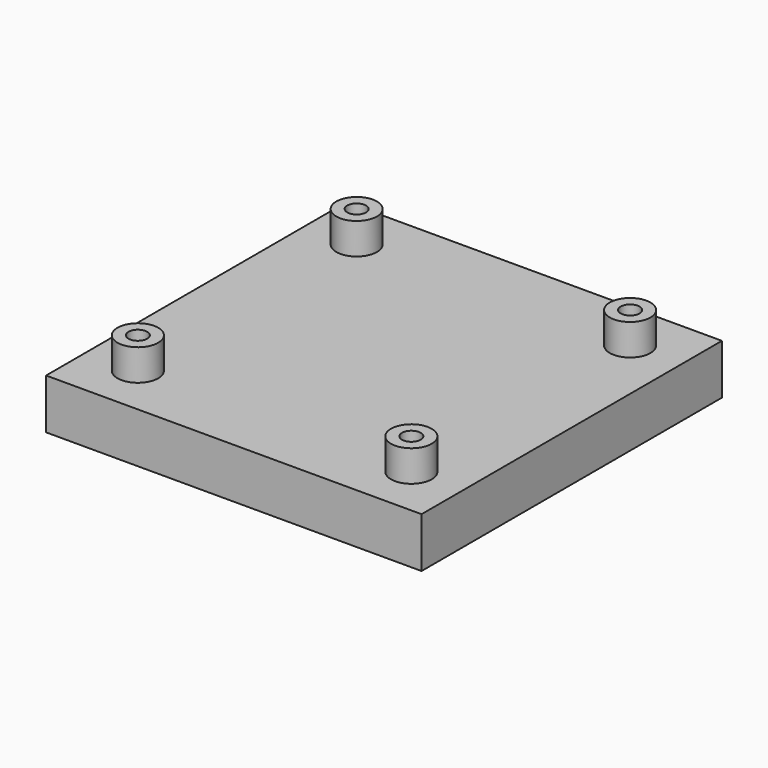
from build123d import *

# Parameters (mm, degrees)
F0_W     = 60
F0_H     = 60
F0_R     = 3.25
F1_DEPTH = 8
F0_R_2   = 1.5
F2_DEPTH = 13
F3_DEPTH = 5


with BuildPart() as f1:
    # F0 (on Top) → F1 (new body)
    with BuildSketch(Plane.XY):
        Rectangle(F0_W, F0_H)
        with Locations((-21.85, -21.85)):
            Circle(F0_R, mode=Mode.SUBTRACT)
        with Locations((21.85, -21.85)):
            Circle(F0_R, mode=Mode.SUBTRACT)
        with Locations((-21.85, 21.85)):
            Circle(F0_R, mode=Mode.SUBTRACT)
        with Locations((21.85, 21.85)):
            Circle(F0_R, mode=Mode.SUBTRACT)
    extrude(amount=F1_DEPTH)

    # F0 (on Top) → F2 (join)
    with BuildSketch(Plane.XY):
        with Locations((-21.85, 21.85)):
            Circle(F0_R)
        with Locations((-21.85, 21.85)):
            Circle(F0_R_2, mode=Mode.SUBTRACT)
        with Locations((21.85, 21.85)):
            Circle(F0_R)
        with Locations((21.85, 21.85)):
            Circle(F0_R_2, mode=Mode.SUBTRACT)
        with Locations((-21.85, -21.85)):
            Circle(F0_R)
        with Locations((-21.85, -21.85)):
            Circle(F0_R_2, mode=Mode.SUBTRACT)
        with Locations((21.85, -21.85)):
            Circle(F0_R)
        with Locations((21.85, -21.85)):
            Circle(F0_R_2, mode=Mode.SUBTRACT)
    extrude(amount=F2_DEPTH)

    # F0 (on Top) → F3 (join)
    with BuildSketch(Plane.XY):
        with Locations((-21.85, 21.85)):
            Circle(F0_R_2)
        with Locations((21.85, 21.85)):
            Circle(F0_R_2)
        with Locations((-21.85, -21.85)):
            Circle(F0_R_2)
        with Locations((21.85, -21.85)):
            Circle(F0_R_2)
    extrude(amount=F3_DEPTH)


solid = f1.part
